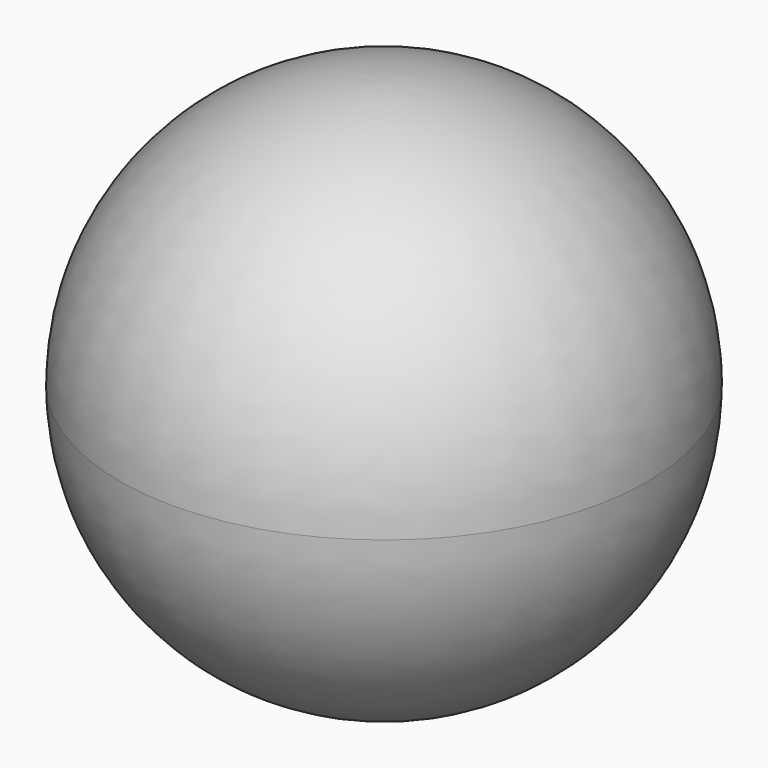
from build123d import *


with BuildPart() as f1:
    # F0 (on Front) → F1 (revolve)
    with BuildSketch(Plane.XZ):
        with BuildLine():
            Line((15.239999, -10.193129), (15.239999, 5.554871))
            ThreePointArc((15.239999, 5.554871), (9.67224, 3.24863), (7.365999, -2.319129))
            ThreePointArc((7.365999, -2.319129), (9.67224, -7.886888), (15.239999, -10.193129))
        make_face()
    revolve(axis=Axis((15.239999, 0, -2.319129), (0, 0, -1)))


solid = f1.part
